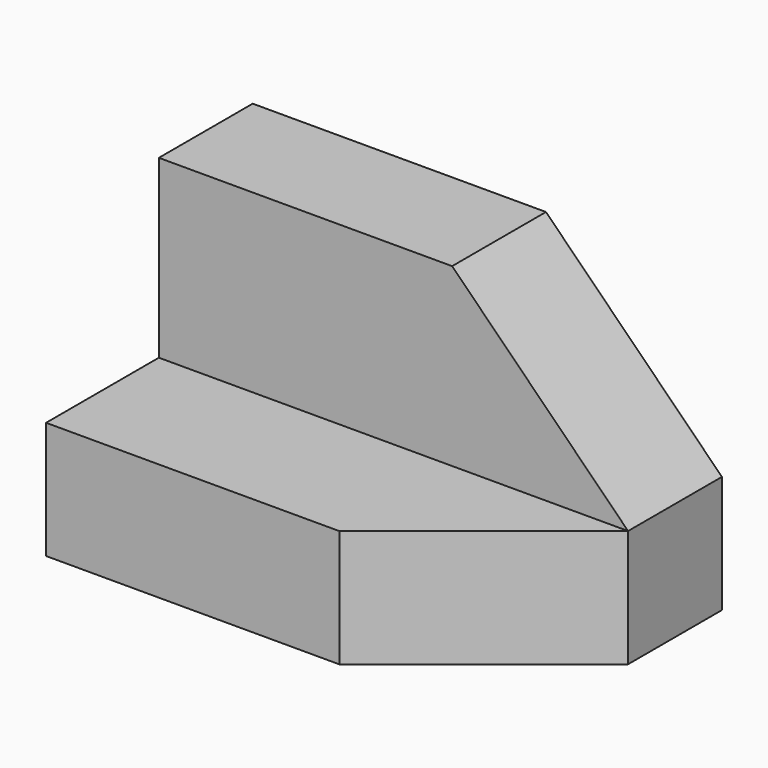
from build123d import *

# Parameters (mm, degrees)
F1_DEPTH = 50.8
F3_DEPTH = 12.701
F5_DEPTH = 12.701


with BuildPart() as f1:
    # F0 (on Right) → F1 (new body)
    with BuildSketch(Plane.YZ):
        Polygon((-24.720795, 16.082145), (-24.720795, 47.832145), (-37.420795, 47.832145), (-37.420795, 28.782145), (-52.681845, 28.782145), (-52.681845, 16.082145), align=None)
    extrude(amount=F1_DEPTH)

    # F2 (on face) → F3 (cut, through all)
    with BuildSketch(Plane.XZ.offset(37.420795)):
        Polygon((31.75, 47.832145), (50.8, 28.782145), (50.8, 47.832145), align=None)
    extrude(amount=-F3_DEPTH, mode=Mode.SUBTRACT)

    # F4 (on face) → F5 (cut, through all)
    with BuildSketch(Plane.XY.offset(28.782145)):
        Polygon((50.8, -52.681845), (50.8, -37.420795), (31.75, -52.681845), align=None)
    extrude(amount=-F5_DEPTH, mode=Mode.SUBTRACT)


solid = f1.part
